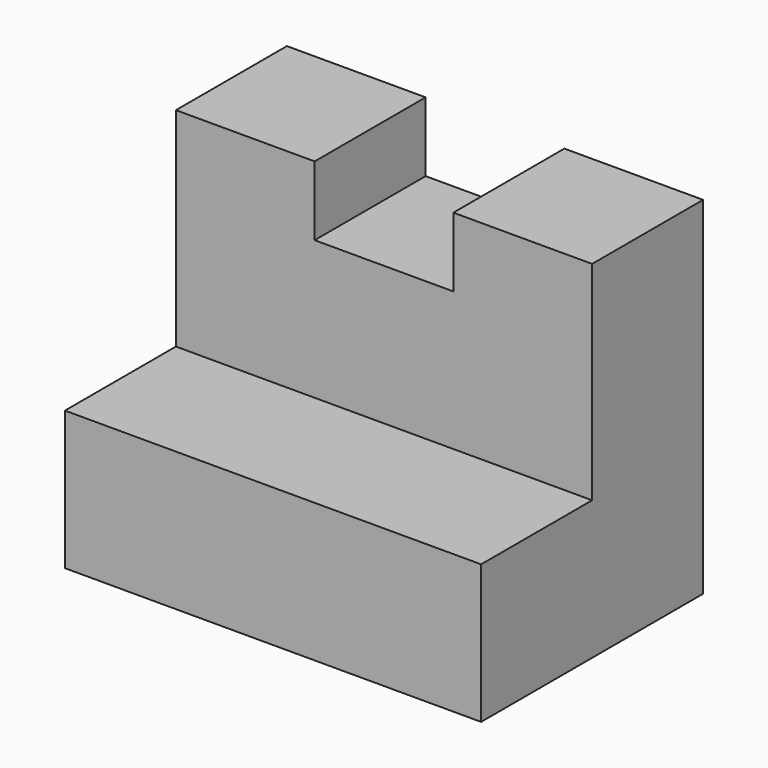
from build123d import *

# Parameters (mm, degrees)
F1_DEPTH = 38.1
F2_W     = 12.7
F2_H     = 6.35
F3_DEPTH = 25.4


with BuildPart() as f1:
    # F0 (on Right) → F1 (new body)
    with BuildSketch(Plane.YZ):
        Polygon((0, 12.7), (0, 0), (25.4, 0), (25.4, 31.75), (12.7, 31.75), (12.7, 12.7), align=None)
    extrude(amount=-F1_DEPTH)

    # F2 (on face) → F3 (cut)
    with BuildSketch(Plane.XZ.offset(-12.7)):
        with Locations((-19.05, 28.575)):
            Rectangle(F2_W, F2_H)
    extrude(amount=-F3_DEPTH, mode=Mode.SUBTRACT)


solid = f1.part
